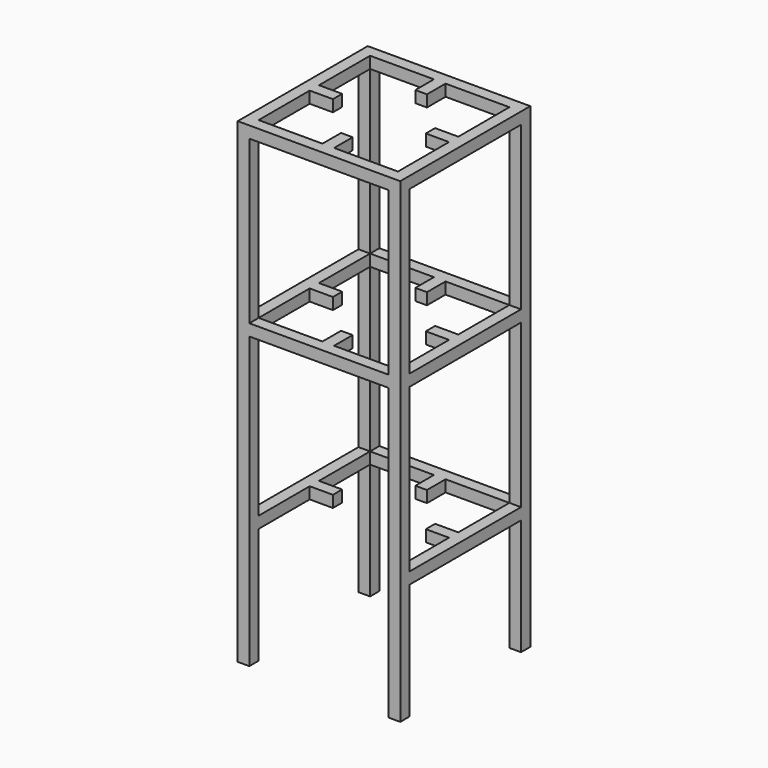
from build123d import *

# Parameters (mm, degrees)
F0_W      = 700
F0_H      = 700
F0_W_2    = 600
F0_H_2    = 600
F1_DEPTH  = 50
F2_W      = 50
F2_H      = 50
F3_DEPTH  = 700
F4_W      = 700
F4_H      = 700
F4_W_2    = 600
F4_H_2    = 600
F5_DEPTH  = 50
F6_W      = 100
F6_H      = 50
F6_W_2    = 50
F6_H_2    = 100
F7_DEPTH  = 50
F8_W      = 50
F8_H      = 50
F9_DEPTH  = 700
F10_W     = 700
F10_H     = 700
F10_W_2   = 600
F10_H_2   = 600
F11_DEPTH = 50
F12_W     = 50
F12_H     = 50
F13_DEPTH = 500
F14_W     = 100
F14_H     = 50
F14_W_2   = 50
F14_H_2   = 100
F15_DEPTH = 50
F16_W     = 600
F16_H     = 50
F17_DEPTH = 50
F18_W     = 100
F18_H     = 50
F18_W_2   = 50
F18_H_2   = 100
F19_DEPTH = 50


with BuildPart() as f1:
    # F0 (on Top) → F1 (new body)
    with BuildSketch(Plane.XY):
        Rectangle(F0_W, F0_H)
        Rectangle(F0_W_2, F0_H_2, mode=Mode.SUBTRACT)
    extrude(amount=-F1_DEPTH)

    # F2 (on face) → F3 (join)
    with BuildSketch(Plane(origin=(0, 0, -50), x_dir=(1, 0, 0), z_dir=(0, 0, -1))):
        with Locations((-325, 325)):
            Rectangle(F2_W, F2_H)
        with Locations((325, 325)):
            Rectangle(F2_W, F2_H)
        with Locations((325, -325)):
            Rectangle(F2_W, F2_H)
        with Locations((-325, -325)):
            Rectangle(F2_W, F2_H)
    extrude(amount=F3_DEPTH)

    # F4 (on face) → F5 (join)
    with BuildSketch(Plane(origin=(0, 0, -750), x_dir=(1, 0, 0), z_dir=(0, 0, -1))):
        Rectangle(F4_W, F4_H)
        Rectangle(F4_W_2, F4_H_2, mode=Mode.SUBTRACT)
    extrude(amount=F5_DEPTH)

    # F6 (on face) → F7 (join)
    with BuildSketch(Plane.XY):
        with Locations((-250, 0)):
            Rectangle(F6_W, F6_H)
        with Locations((0, -250)):
            Rectangle(F6_W_2, F6_H_2)
        with Locations((250, 0)):
            Rectangle(F6_W, F6_H)
        with Locations((0, 250)):
            Rectangle(F6_W_2, F6_H_2)
    extrude(amount=-F7_DEPTH)

    # F8 (on face) → F9 (join)
    with BuildSketch(Plane(origin=(0, 0, -800), x_dir=(1, 0, 0), z_dir=(0, 0, -1))):
        with Locations((-325, 325)):
            Rectangle(F8_W, F8_H)
        with Locations((325, 325)):
            Rectangle(F8_W, F8_H)
        with Locations((-325, -325)):
            Rectangle(F8_W, F8_H)
        with Locations((325, -325)):
            Rectangle(F8_W, F8_H)
    extrude(amount=F9_DEPTH)

    # F10 (on face) → F11 (join)
    with BuildSketch(Plane(origin=(0, 0, -1500), x_dir=(1, 0, 0), z_dir=(0, 0, -1))):
        Rectangle(F10_W, F10_H)
        Rectangle(F10_W_2, F10_H_2, mode=Mode.SUBTRACT)
    extrude(amount=F11_DEPTH)

    # F12 (on face) → F13 (join)
    with BuildSketch(Plane(origin=(0, 0, -1550), x_dir=(1, 0, 0), z_dir=(0, 0, -1))):
        with Locations((-325, 325)):
            Rectangle(F12_W, F12_H)
        with Locations((325, 325)):
            Rectangle(F12_W, F12_H)
        with Locations((-325, -325)):
            Rectangle(F12_W, F12_H)
        with Locations((325, -325)):
            Rectangle(F12_W, F12_H)
    extrude(amount=F13_DEPTH)

    # F14 (on face) → F15 (join)
    with BuildSketch(Plane.XY.offset(-750)):
        with Locations((-250, 0)):
            Rectangle(F14_W, F14_H)
        with Locations((0, -250)):
            Rectangle(F14_W_2, F14_H_2)
        with Locations((250, 0)):
            Rectangle(F14_W, F14_H)
        with Locations((0, 250)):
            Rectangle(F14_W_2, F14_H_2)
    extrude(amount=-F15_DEPTH)

    # F16 (on face) → F17 (cut, through all)
    with BuildSketch(Plane.XY.offset(-1500)):
        with Locations((0, -325)):
            Rectangle(F16_W, F16_H)
    extrude(amount=-F17_DEPTH, mode=Mode.SUBTRACT)

    # F18 (on face) → F19 (join)
    with BuildSketch(Plane.XY.offset(-1500)):
        with Locations((-250, 0)):
            Rectangle(F18_W, F18_H)
        with Locations((250, 0)):
            Rectangle(F18_W, F18_H)
        with Locations((0, 250)):
            Rectangle(F18_W_2, F18_H_2)
    extrude(amount=-F19_DEPTH)


solid = f1.part
